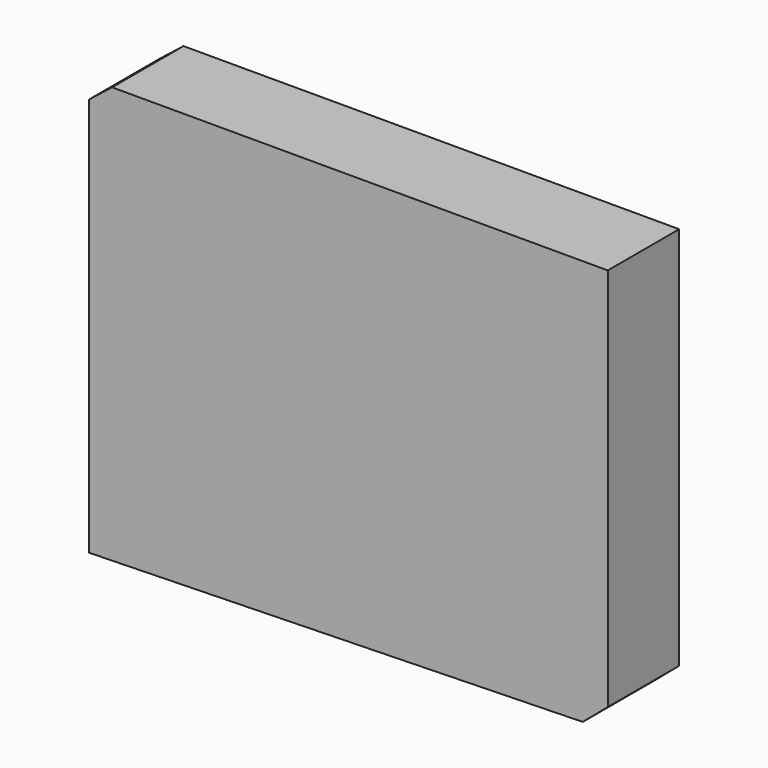
from build123d import *

# Parameters (mm, degrees)
F0_W     = 123.1974195689
F0_H     = 95.799991861
F1_DEPTH = 23.368


with BuildPart() as f1:
    # F0 (on Front) → F1 (new body)
    with BuildSketch(Plane.XZ):
        Polygon((113.2330745459, -4.5672673732), (106.6863015294, -9.379176423), (106.6863015294, -105.1791682839), (113.2330745459, -105.1791682839), align=None)
        Polygon((-16.5111180395, -9.379176423), (106.6863015294, -9.379176423), (113.2330745459, -4.5672673732), (-16.5111180395, -4.5672673732), align=None)
        Polygon((-16.5111180395, -105.1791682839), (-16.5111180395, -9.379176423), (-22.6063877344, -9.379176423), (-22.6063877344, -101.0192483664), (-22.6063877344, -113.7807220221), align=None)
        Polygon((-22.6063877344, -9.379176423), (-16.5111180395, -9.379176423), (-16.5111180395, -4.5672673732), align=None)
        Polygon((113.2330745459, -105.1791682839), (106.6863015294, -105.1791682839), (106.6863015294, -110.7390969992), align=None)
        Polygon((106.6863015294, -110.7390969992), (106.6863015294, -105.1791682839), (-16.5111180395, -105.1791682839), (-22.6063877344, -113.7807220221), align=None)
        with Locations((45.087591745, -57.2791723534)):
            Rectangle(F0_W, F0_H)
    extrude(amount=F1_DEPTH)


solid = f1.part
